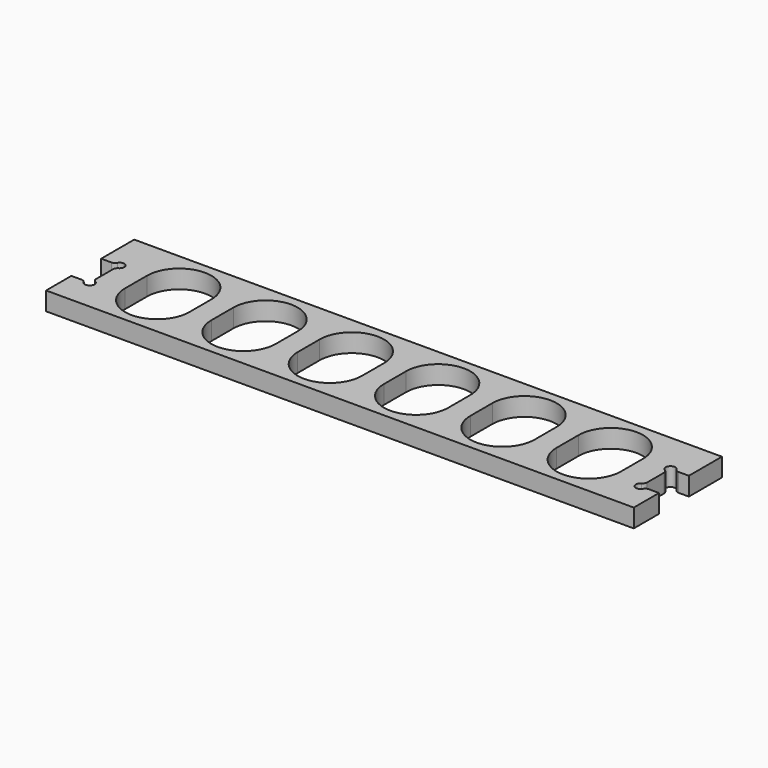
from build123d import *

# Parameters (mm, degrees)
F0_W     = 406.4
F0_H     = 76.2
F1_DEPTH = 12.7
F3_DEPTH = 25.4
F5_DEPTH = 25.4


with BuildPart() as f1:
    # F0 (on Top) → F1 (new body)
    with BuildSketch(Plane.XY):
        with Locations((203.2, 38.1)):
            Rectangle(F0_W, F0_H)
    extrude(amount=F1_DEPTH)

    # F2 (on face) → F3 (cut)
    with BuildSketch(Plane.XY.offset(12.7)):
        with BuildLine():
            Line((7.054568, 47.625), (0, 47.625))
            Line((0, 47.625), (0, 21.844))
            Line((0, 21.844), (7.054568, 21.844))
            ThreePointArc((7.054568, 21.844), (8.657556, 21.40963), (9.821937, 20.225373))
            ThreePointArc((9.821937, 20.225373), (15.034867, 19.509133), (14.318627, 24.722063))
            ThreePointArc((14.318627, 24.722063), (13.13437, 25.886444), (12.7, 27.489432))
            Line((12.7, 27.489432), (12.7, 41.979568))
            ThreePointArc((12.7, 41.979568), (13.13437, 43.582556), (14.318627, 44.746937))
            ThreePointArc((14.318627, 44.746937), (15.034867, 49.959867), (9.821937, 49.243627))
            ThreePointArc((9.821937, 49.243627), (8.657556, 48.05937), (7.054568, 47.625))
        make_face()
        with BuildLine():
            Line((393.7, 41.979568), (393.7, 27.489432))
            ThreePointArc((393.7, 27.489432), (393.26563, 25.886444), (392.081373, 24.722063))
            ThreePointArc((392.081373, 24.722063), (391.365133, 19.509133), (396.578063, 20.225373))
            ThreePointArc((396.578063, 20.225373), (397.742444, 21.40963), (399.345432, 21.844))
            Line((399.345432, 21.844), (406.4, 21.844))
            Line((406.4, 21.844), (406.4, 47.625))
            Line((406.4, 47.625), (399.345432, 47.625))
            ThreePointArc((399.345432, 47.625), (397.742444, 48.05937), (396.578063, 49.243627))
            ThreePointArc((396.578063, 49.243627), (391.365133, 49.959867), (392.081373, 44.746937))
            ThreePointArc((392.081373, 44.746937), (393.26563, 43.582556), (393.7, 41.979568))
        make_face()
    extrude(amount=-F3_DEPTH, mode=Mode.SUBTRACT)

    # F4 (on face) → F5 (cut)
    with BuildSketch(Plane.XY.offset(12.7)):
        with BuildLine():
            ThreePointArc((31.75, 28.575), (53.975, 6.35), (76.2, 28.575))
            Line((76.2, 28.575), (76.2, 47.625))
            ThreePointArc((76.2, 47.625), (53.975, 69.85), (31.75, 47.625))
            Line((31.75, 47.625), (31.75, 28.575))
        make_face()
        with BuildLine():
            Line((91.44, 47.625), (91.44, 28.575))
            ThreePointArc((91.44, 28.575), (113.665, 6.35), (135.89, 28.575))
            Line((135.89, 28.575), (135.89, 47.625))
            ThreePointArc((135.89, 47.625), (113.665, 69.85), (91.44, 47.625))
        make_face()
        with BuildLine():
            Line((151.13, 47.625), (151.13, 28.575))
            ThreePointArc((151.13, 28.575), (173.355, 6.35), (195.58, 28.575))
            Line((195.58, 28.575), (195.58, 47.625))
            ThreePointArc((195.58, 47.625), (173.355, 69.85), (151.13, 47.625))
        make_face()
        with BuildLine():
            Line((210.82, 47.625), (210.82, 28.575))
            ThreePointArc((210.82, 28.575), (233.045, 6.35), (255.27, 28.575))
            Line((255.27, 28.575), (255.27, 47.625))
            ThreePointArc((255.27, 47.625), (233.045, 69.85), (210.82, 47.625))
        make_face()
        with BuildLine():
            Line((270.51, 47.625), (270.51, 28.575))
            ThreePointArc((270.51, 28.575), (292.735, 6.35), (314.96, 28.575))
            Line((314.96, 28.575), (314.96, 47.625))
            ThreePointArc((314.96, 47.625), (292.735, 69.85), (270.51, 47.625))
        make_face()
        with BuildLine():
            Line((330.2, 47.625), (330.2, 28.575))
            ThreePointArc((330.2, 28.575), (352.425, 6.35), (374.65, 28.575))
            Line((374.65, 28.575), (374.65, 47.625))
            ThreePointArc((374.65, 47.625), (352.425, 69.85), (330.2, 47.625))
        make_face()
    extrude(amount=-F5_DEPTH, mode=Mode.SUBTRACT)


solid = f1.part
